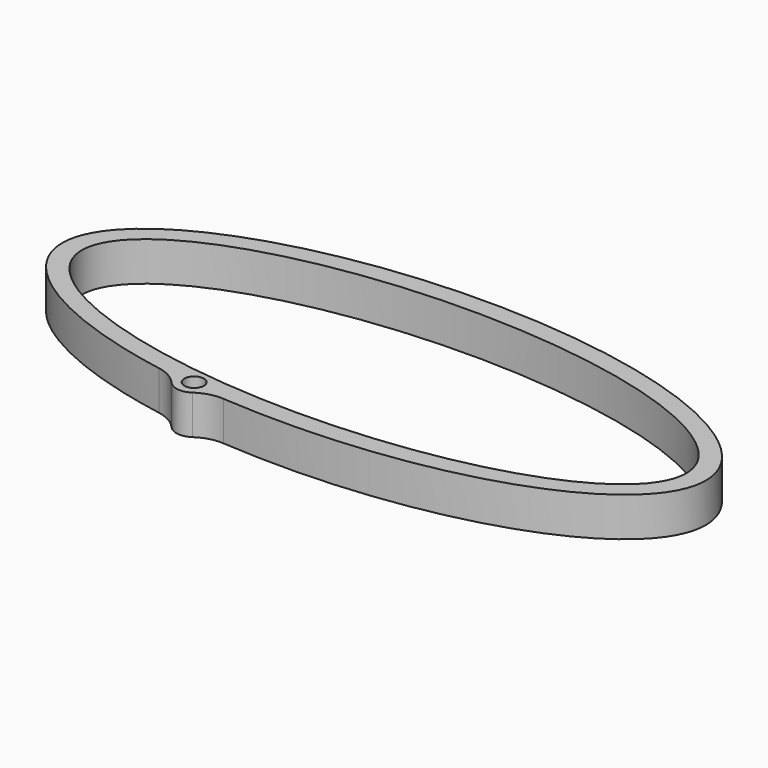
from build123d import *

# Parameters (mm, degrees)
F0_R     = 1.25
F1_DEPTH = 5


with BuildPart() as f1:
    # F0 (on Top) → F1 (new body)
    with BuildSketch(Plane.XY):
        with BuildLine():
            ThreePointArc((-10.7179617, -17.0990207672), (-9.1822924915, -16.3835148506), (-7.4958438822, -16.2218988771))
            add(Edge.make_bspline(
                [(-7.4958438822, -16.2218988771), (56.4579776302, -21.0080402047), (39.5991387481, 4.2762476591), (22.7402998659, 29.5605355228), (-26.6684851438, 12.5325476275), (-76.0772701535, -4.4954402678), (-16.5907873071, -15.0887575827)],
                knots=[4.5285293937, 4.5285293937, 4.5285293937, 6.5453444498, 6.5453444498, 8.5621595058, 8.5621595058, 10.5789745619, 10.5789745619, 10.5789745619], degree=2, weights=[1, 0.5332086024, 1, 0.5332086024, 1, 0.5332086024, 1]))
            ThreePointArc((-16.5907873071, -15.0887575827), (-15.0035224176, -15.6605278267), (-13.6967772059, -16.7276491848))
            ThreePointArc((-13.6967772059, -16.7276491848), (-12.2783546354, -17.4827155432), (-10.7179617, -17.0990207672))
        make_face()
        with Locations((-12, -15.25)):
            Circle(F0_R, mode=Mode.SUBTRACT)
        with BuildLine():
            add(Edge.make_bspline(
                [(38.5, 0), (38.5, 33.7989898732), (-27.2236110757, 9.8994949366), (-92.9472221514, -14), (0, -14)],
                knots=[0, 0, 0, 2.3561944902, 2.3561944902, 4.7123889804, 4.7123889804, 4.7123889804], degree=2, weights=[1, 0.3826834324, 1, 0.3826834324, 1]))
            add(Edge.make_bspline(
                [(0, -14), (38.5, -14), (38.5, 0)],
                knots=[4.7123889804, 4.7123889804, 4.7123889804, 6.2831853072, 6.2831853072, 6.2831853072], degree=2, weights=[1, 0.7071067812, 1]))
        make_face(mode=Mode.SUBTRACT)
    extrude(amount=F1_DEPTH)


solid = f1.part
